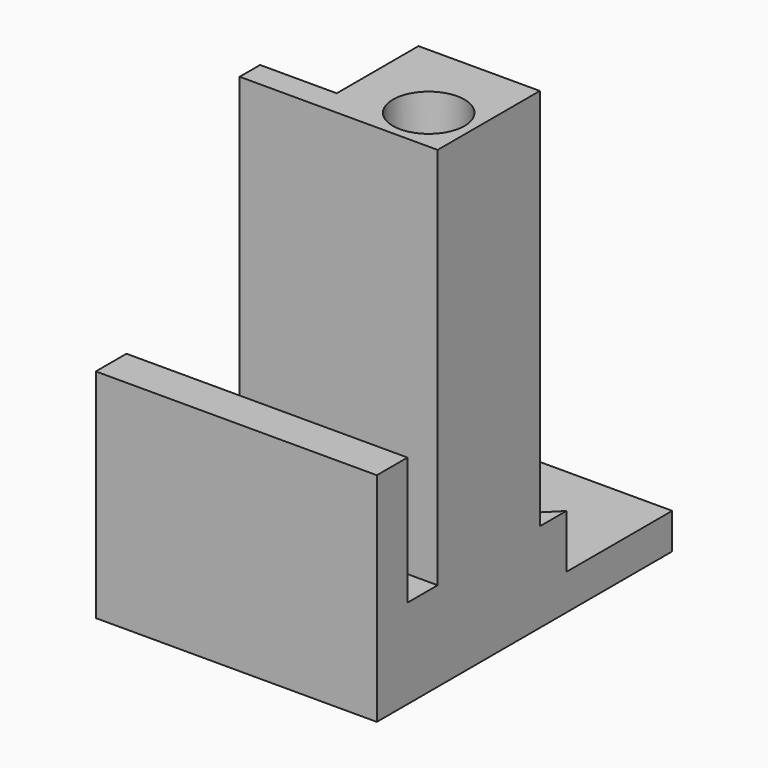
from build123d import *

# Parameters (mm, degrees)
SKETCH016_W     = 22
SKETCH016_H     = 28.9
SKETCH016_R     = 1.25
PAD010_DEPTH    = 7
POCKET005_DEPTH = 4.2
SKETCH020_R     = 2.8
POCKET006_DEPTH = 2.8
SKETCH021_R     = 2.8
PAD011_DEPTH    = 30
SKETCH022_R     = 1.25
POCKET007_DEPTH = 5.3
SKETCH026_W     = 22
SKETCH026_H     = 3
PAD015_DEPTH    = 10


with BuildPart() as part:
    # Sketch016 (on Face1 of ReferencePad007) → Pad010 (new body)
    with BuildSketch(Plane.XY.offset(3.5)):
        with Locations((0, 132.225)):
            Rectangle(SKETCH016_W, SKETCH016_H)
        with Locations((-7.5, 137.225)):
            Circle(SKETCH016_R, mode=Mode.SUBTRACT)
        with Locations((-7.5, 127.225)):
            Circle(SKETCH016_R, mode=Mode.SUBTRACT)
        with Locations((7.5, 137.225)):
            Circle(SKETCH016_R, mode=Mode.SUBTRACT)
        with Locations((7.5, 127.225)):
            Circle(SKETCH016_R, mode=Mode.SUBTRACT)
    extrude(amount=PAD010_DEPTH)

    # Sketch019 (on Face10 of Pad010) → Pocket005 (cut)
    with BuildSketch(Plane.XY.offset(10.5)):
        Polygon((-8.411624, 133.725), (-11, 136.313376), (-11, 146.675), (11, 146.675), (11, 136.313376), (8.411624, 133.725), align=None)
    extrude(amount=-POCKET005_DEPTH, mode=Mode.SUBTRACT)

    # Sketch020 (on Face5 of Pocket005) → Pocket006 (cut)
    with BuildSketch(Plane.XY.offset(10.5)):
        with Locations((-7.5, 127.225)):
            Circle(SKETCH020_R)
        with Locations((7.5, 127.225)):
            Circle(SKETCH020_R)
    extrude(amount=-POCKET006_DEPTH, mode=Mode.SUBTRACT)

    # Sketch021 (on Face5 of Pocket006) → Pad011 (join)
    with BuildSketch(Plane.XY.offset(10.5)):
        Polygon((-4.5, 123.725), (11, 123.725), (11, 133.725), (1.5, 133.725), (1.5, 125.725), (-4.5, 125.725), align=None)
        with Locations((7.5, 127.225)):
            Circle(SKETCH021_R, mode=Mode.SUBTRACT)
    extrude(amount=PAD011_DEPTH)

    # Sketch022 (on Face17 of Pad011) → Pocket007 (cut)
    with BuildSketch(Plane(origin=(1.5, 0, 8), x_dir=(0, -1, 0), z_dir=(-1, 0, 0))):
        with Locations((-130.225, 27.5)):
            Circle(SKETCH022_R)
        with Locations((-130.225, 7.5)):
            Circle(SKETCH022_R)
    extrude(amount=-POCKET007_DEPTH, mode=Mode.SUBTRACT)

    # Sketch026 (on Face5 of Pocket007) → Pad015 (join)
    with BuildSketch(Plane.XY.offset(10.5)):
        with Locations((0, 119.275)):
            Rectangle(SKETCH026_W, SKETCH026_H)
    extrude(amount=PAD015_DEPTH)


solid = part.part
